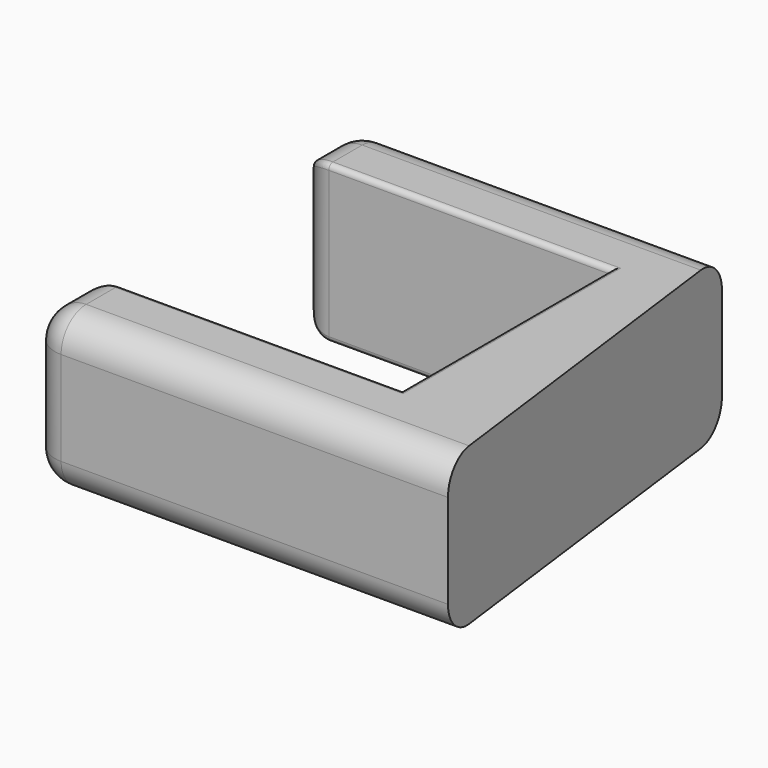
from build123d import *

# Parameters (mm, degrees)
PAD_DEPTH   = 15
FILLET_R    = 3
FILLET001_R = 0.5


with BuildPart() as part:
    # Sketch → Pad (new body)
    with BuildSketch(Plane.XY):
        Polygon((0, 0), (30, 0), (30, 25), (0, 25), (0, 32), (35, 32), (40, -7), (0, -7), align=None)
    extrude(amount=PAD_DEPTH)

    # Fillet
    fillet_edges = [part.edges().sort_by_distance(p)[0] for p in [
        (17.5, 32, 15),
        (17.5, 32, 0),
        (0, 32, 7.5),
        (0, 25, 7.5),
        (0, 28.5, 0),
        (0, 28.5, 15),
        (0, 0, 7.5),
        (0, -3.5, 0),
        (0, -7, 7.5),
        (0, -3.5, 15),
        (20, -7, 15),
        (20, -7, 0),
    ]]
    fillet(fillet_edges, radius=FILLET_R)

    # Fillet001
    fillet001_edges = [part.edges().sort_by_distance(p)[0] for p in [
        (16.5, 0, 15),
        (16.5, 0, 0),
        (16.5, 25, 0),
        (16.5, 25, 15),
        (30, 12.5, 0),
        (30, 12.5, 15),
    ]]
    fillet(fillet001_edges, radius=FILLET001_R)


solid = part.part
